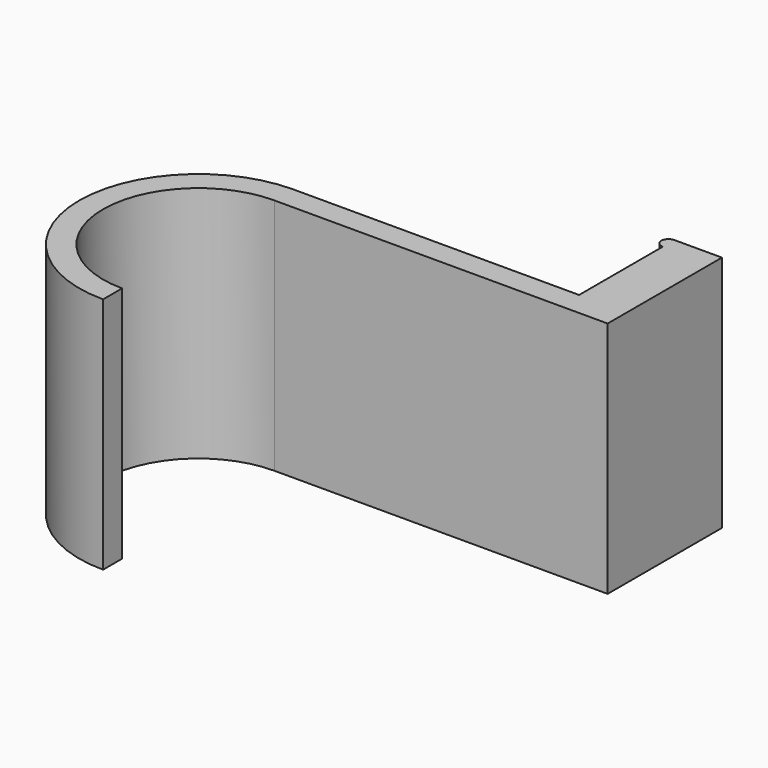
from build123d import *

# Parameters (mm, degrees)
F1_DEPTH = 25


with BuildPart() as f1:
    # F0 (on Top) → F1 (new body)
    with BuildSketch(Plane.XY):
        with BuildLine():
            ThreePointArc((0, -10), (-10, 0), (0, 10))
            Line((0, 10), (0, 12.5))
            ThreePointArc((0, 12.5), (-12.5, 0), (0, -12.5))
            Line((0, -12.5), (0, -10))
        make_face()
        with BuildLine():
            Line((0, 12.5), (0, 10))
            Line((0, 10), (30, 10))
            Line((30, 10), (35, 10))
            Line((35, 10), (35, 25))
            Line((35, 25), (30, 25))
            ThreePointArc((30, 25), (29.240384, 24.240384), (30, 23.480768))
            Line((30, 23.480768), (30, 12.5))
            Line((30, 12.5), (0, 12.5))
        make_face()
    extrude(amount=F1_DEPTH)


solid = f1.part
